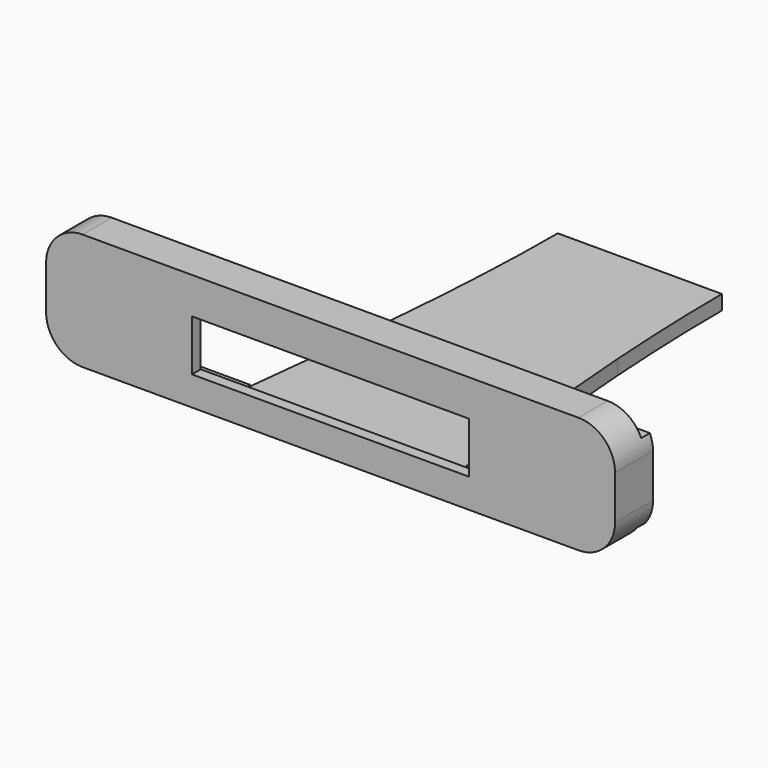
from build123d import *

# Parameters (mm, degrees)
F1_DEPTH  = 2
F2_W      = 78
F2_H      = 1.5
F3_DEPTH  = 2
F4_W      = 20
F4_H      = 1.5
F5_DEPTH  = 7
F6_W      = 78
F6_H      = 1.5
F7_DEPTH  = 2
F8_W      = 78
F8_H      = 3
F9_DEPTH  = 3
F10_DEPTH = 2
F11_DEPTH = 2
F12_W     = 3
F12_H     = 11
F13_DEPTH = 5
F14_R     = 5


with BuildPart() as f1:
    # F0 (on Top) → F1 (new body)
    with BuildSketch(Plane.XY):
        with BuildLine():
            Line((7.8453938663, 18.7269745824), (-14.6546061337, 18.7269745824))
            add(Edge.make_bspline(
                [(-14.6546061337, 18.7269745824), (-14.6546061337, 12.4846497216), (-14.9176308165, 6.2423248608), (-15.345167051, 0)],
                knots=[0.5, 0.5, 0.5, 0.5, 0.6872697458, 0.6872697458, 0.6872697458, 0.6872697458], degree=3))
            Line((-15.345167051, 0), (8.5359547836, 0))
            add(Edge.make_bspline(
                [(7.8453938663, 18.7269745824), (7.8453938663, 12.4846497216), (8.1084185491, 6.2423248608), (8.5359547836, 0)],
                knots=[0.5, 0.5, 0.5, 0.5, 0.6872697458, 0.6872697458, 0.6872697458, 0.6872697458], degree=3))
        make_face()
        Polygon((11.5953938663, -31.2730254176), (-18.4046061337, -31.2730254176), (-42.4046061337, -31.2730254176), (-42.4046061337, -34.2730254176), (35.5953938663, -34.2730254176), (35.5953938663, -31.2730254176), align=None)
        with BuildLine():
            Line((8.5359547836, 0), (-15.345167051, 0))
            add(Edge.make_bspline(
                [(-15.345167051, 0), (-16.0591292274, -10.4243418059), (-17.2318676805, -20.8486836117), (-18.4046061337, -31.2730254176)],
                knots=[0.6872697458, 0.6872697458, 0.6872697458, 0.6872697458, 1, 1, 1, 1], degree=3))
            Line((-18.4046061337, -31.2730254176), (11.5953938663, -31.2730254176))
            add(Edge.make_bspline(
                [(8.5359547836, 0), (9.24991696, -10.4243418059), (10.4226554131, -20.8486836117), (11.5953938663, -31.2730254176)],
                knots=[0.6872697458, 0.6872697458, 0.6872697458, 0.6872697458, 1, 1, 1, 1], degree=3))
        make_face()
    extrude(amount=F1_DEPTH)

    # F2 (on face) → F3 (join)
    with BuildSketch(Plane.XY.offset(2)):
        with Locations((-3.4046061337, -33.5230254176)):
            Rectangle(F2_W, F2_H)
    extrude(amount=F3_DEPTH)

    # F4 (on face) → F5 (join)
    with BuildSketch(Plane.XY.offset(4)):
        with Locations((-32.4046061337, -33.5230254176)):
            Rectangle(F4_W, F4_H)
        with Locations((25.5953938663, -33.5230254176)):
            Rectangle(F4_W, F4_H)
    extrude(amount=F5_DEPTH)

    # F6 (on face) → F7 (join)
    with BuildSketch(Plane.XY.offset(11)):
        with Locations((-3.4046061337, -33.5230254176)):
            Rectangle(F6_W, F6_H)
    extrude(amount=F7_DEPTH)

    # F8 (on face) → F9 (join)
    with BuildSketch(Plane.XY.offset(13)):
        with Locations((-3.4046061337, -32.7730254176)):
            Rectangle(F8_W, F8_H)
    extrude(amount=F9_DEPTH)

    # F10 (add): a face of the model
    f10_faces = [f1.faces().sort_by_distance(p)[0] for p in [
        (-3.4046061337, -31.2730254176, 14.5),
    ]]
    extrude(f10_faces, amount=F10_DEPTH)

    # F11 (add): faces of the model
    f11_faces = [f1.faces().sort_by_distance(p)[0] for p in [
        (23.5953938663, -31.2730254176, 1),
        (-30.4046061337, -31.2730254176, 1),
    ]]
    extrude(f11_faces, amount=F11_DEPTH)

    # F12 (on face) → F13 (join)
    with BuildSketch(Plane(origin=(0, -32.7730254176, 0), x_dir=(-1, 0, 0), z_dir=(0, 1, 0))):
        with Locations((40.9046061337, 7.5)):
            Rectangle(F12_W, F12_H)
        with Locations((-34.0953938663, 7.5)):
            Rectangle(F12_W, F12_H)
    extrude(amount=F13_DEPTH)

    # F14
    f14_edges = [f1.edges().sort_by_distance(p)[0] for p in [
        (35.595394, -31.773025, 16),
        (35.595394, -31.773025, 0),
        (-42.404606, -31.773025, 0),
        (-42.404606, -31.773025, 16),
    ]]
    fillet(f14_edges, radius=F14_R)


solid = f1.part
